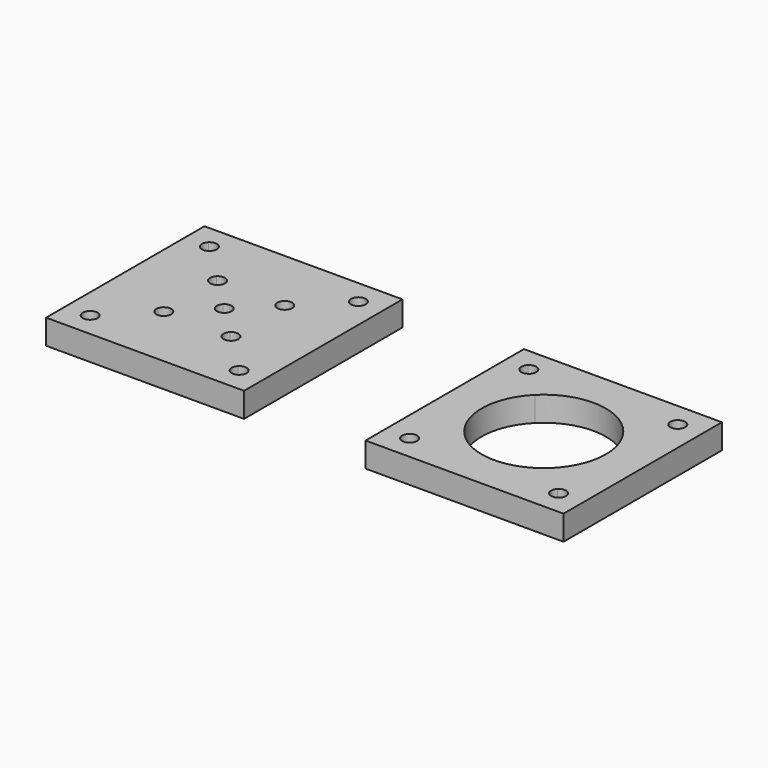
from build123d import *

# Parameters (mm, degrees)
F1_DEPTH = 6.35
F3_DEPTH = 6.35


with BuildPart() as f1:
    # F0 (on Top) → F1 (new body)
    with BuildSketch(Plane.XY):
        with BuildLine():
            Line((-64.19153, 70.797941), (-69.130671, 75.737081))
            Line((-69.130671, 75.737081), (-69.130671, 24.937081))
            Line((-69.130671, 24.937081), (-64.19153, 29.876222))
            ThreePointArc((-64.19153, 29.876222), (-64.19153, 32.570299), (-61.497453, 32.570299))
            Line((-61.497453, 32.570299), (-53.698755, 40.368997))
            ThreePointArc((-53.698755, 40.368997), (-53.698755, 43.063074), (-51.004679, 43.063074))
            Line((-51.004679, 43.063074), (-45.07771, 48.990043))
            ThreePointArc((-45.07771, 48.990043), (-45.635671, 50.337081), (-45.07771, 51.68412))
            Line((-45.07771, 51.68412), (-51.004679, 57.611089))
            ThreePointArc((-51.004679, 57.611089), (-53.698755, 57.611089), (-53.698755, 60.305166))
            Line((-53.698755, 60.305166), (-61.497453, 68.103864))
            ThreePointArc((-61.497453, 68.103864), (-64.19153, 68.103864), (-64.19153, 70.797941))
        make_face()
        with BuildLine():
            Line((-18.330671, 75.737081), (-69.130671, 75.737081))
            Line((-69.130671, 75.737081), (-64.19153, 70.797941))
            ThreePointArc((-64.19153, 70.797941), (-62.11548, 71.210893), (-60.939492, 69.450902))
            ThreePointArc((-60.939492, 69.450902), (-61.084501, 68.72189), (-61.497453, 68.103864))
            Line((-61.497453, 68.103864), (-53.698755, 60.305166))
            ThreePointArc((-53.698755, 60.305166), (-51.622705, 60.718118), (-50.446717, 58.958127))
            ThreePointArc((-50.446717, 58.958127), (-50.591726, 58.229115), (-51.004679, 57.611089))
            Line((-51.004679, 57.611089), (-45.07771, 51.68412))
            ThreePointArc((-45.07771, 51.68412), (-43.730671, 52.242081), (-42.383633, 51.68412))
            Line((-42.383633, 51.68412), (-36.456664, 57.611089))
            ThreePointArc((-36.456664, 57.611089), (-36.456664, 60.305166), (-33.762587, 60.305166))
            Line((-33.762587, 60.305166), (-25.963889, 68.103864))
            ThreePointArc((-25.963889, 68.103864), (-25.963889, 70.797941), (-23.269812, 70.797941))
            Line((-23.269812, 70.797941), (-18.330671, 75.737081))
        make_face()
        with BuildLine():
            Line((-18.330671, 24.937081), (-18.330671, 75.737081))
            Line((-18.330671, 75.737081), (-23.269812, 70.797941))
            ThreePointArc((-23.269812, 70.797941), (-22.85686, 70.179914), (-22.71185, 69.450902))
            ThreePointArc((-22.71185, 69.450902), (-23.887838, 67.690912), (-25.963889, 68.103864))
            Line((-25.963889, 68.103864), (-33.762587, 60.305166))
            ThreePointArc((-33.762587, 60.305166), (-33.349635, 59.687139), (-33.204625, 58.958127))
            ThreePointArc((-33.204625, 58.958127), (-34.380613, 57.198137), (-36.456664, 57.611089))
            Line((-36.456664, 57.611089), (-42.383633, 51.68412))
            ThreePointArc((-42.383633, 51.68412), (-41.970681, 51.066093), (-41.825671, 50.337081))
            ThreePointArc((-41.825671, 50.337081), (-41.970681, 49.608069), (-42.383633, 48.990043))
            Line((-42.383633, 48.990043), (-36.456664, 43.063074))
            ThreePointArc((-36.456664, 43.063074), (-34.380613, 43.476026), (-33.204625, 41.716036))
            ThreePointArc((-33.204625, 41.716036), (-33.349635, 40.987024), (-33.762587, 40.368997))
            Line((-33.762587, 40.368997), (-25.963889, 32.570299))
            ThreePointArc((-25.963889, 32.570299), (-23.887838, 32.983251), (-22.71185, 31.223261))
            ThreePointArc((-22.71185, 31.223261), (-22.85686, 30.494249), (-23.269812, 29.876222))
            Line((-23.269812, 29.876222), (-18.330671, 24.937081))
        make_face()
        with BuildLine():
            Line((-64.19153, 29.876222), (-69.130671, 24.937081))
            Line((-69.130671, 24.937081), (-18.330671, 24.937081))
            Line((-18.330671, 24.937081), (-23.269812, 29.876222))
            ThreePointArc((-23.269812, 29.876222), (-25.963889, 29.876222), (-25.963889, 32.570299))
            Line((-25.963889, 32.570299), (-33.762587, 40.368997))
            ThreePointArc((-33.762587, 40.368997), (-36.456664, 40.368997), (-36.456664, 43.063074))
            Line((-36.456664, 43.063074), (-42.383633, 48.990043))
            ThreePointArc((-42.383633, 48.990043), (-43.730671, 48.432081), (-45.07771, 48.990043))
            Line((-45.07771, 48.990043), (-51.004679, 43.063074))
            ThreePointArc((-51.004679, 43.063074), (-50.591726, 42.445047), (-50.446717, 41.716036))
            ThreePointArc((-50.446717, 41.716036), (-51.622705, 39.956045), (-53.698755, 40.368997))
            Line((-53.698755, 40.368997), (-61.497453, 32.570299))
            ThreePointArc((-61.497453, 32.570299), (-61.084501, 31.952273), (-60.939492, 31.223261))
            ThreePointArc((-60.939492, 31.223261), (-62.11548, 29.46327), (-64.19153, 29.876222))
        make_face()
    extrude(amount=F1_DEPTH)


with BuildPart() as f3:
    # F2 (on Top) → F3 (new body)
    with BuildSketch(Plane.XY):
        with BuildLine():
            Line((19.096085, 69.152684), (14.156944, 74.091825))
            Line((14.156944, 74.091825), (14.156944, 23.291825))
            Line((14.156944, 23.291825), (19.096085, 28.230966))
            ThreePointArc((19.096085, 28.230966), (19.096085, 30.925043), (21.790162, 30.925043))
            Line((21.790162, 30.925043), (28.286722, 37.421604))
            ThreePointArc((28.286722, 37.421604), (23.618444, 48.691825), (28.286722, 59.962047))
            Line((28.286722, 59.962047), (21.790162, 66.458607))
            ThreePointArc((21.790162, 66.458607), (19.096085, 66.458607), (19.096085, 69.152684))
        make_face()
        with BuildLine():
            Line((64.956944, 74.091825), (14.156944, 74.091825))
            Line((14.156944, 74.091825), (19.096085, 69.152684))
            ThreePointArc((19.096085, 69.152684), (21.172135, 69.565636), (22.348123, 67.805646))
            ThreePointArc((22.348123, 67.805646), (22.203114, 67.076634), (21.790162, 66.458607))
            Line((21.790162, 66.458607), (28.286722, 59.962047))
            ThreePointArc((28.286722, 59.962047), (39.556944, 64.630325), (50.827165, 59.962047))
            Line((50.827165, 59.962047), (57.323726, 66.458607))
            ThreePointArc((57.323726, 66.458607), (57.323726, 69.152684), (60.017803, 69.152684))
            Line((60.017803, 69.152684), (64.956944, 74.091825))
        make_face()
        with BuildLine():
            Line((64.956944, 23.291825), (64.956944, 74.091825))
            Line((64.956944, 74.091825), (60.017803, 69.152684))
            ThreePointArc((60.017803, 69.152684), (60.430755, 68.534658), (60.575765, 67.805646))
            ThreePointArc((60.575765, 67.805646), (59.399776, 66.045655), (57.323726, 66.458607))
            Line((57.323726, 66.458607), (50.827165, 59.962047))
            ThreePointArc((50.827165, 59.962047), (54.282198, 54.791225), (55.495444, 48.691825))
            ThreePointArc((55.495444, 48.691825), (54.282198, 42.592425), (50.827165, 37.421604))
            Line((50.827165, 37.421604), (57.323726, 30.925043))
            ThreePointArc((57.323726, 30.925043), (59.399776, 31.337995), (60.575765, 29.578004))
            ThreePointArc((60.575765, 29.578004), (60.430755, 28.848992), (60.017803, 28.230966))
            Line((60.017803, 28.230966), (64.956944, 23.291825))
        make_face()
        with BuildLine():
            Line((19.096085, 28.230966), (14.156944, 23.291825))
            Line((14.156944, 23.291825), (64.956944, 23.291825))
            Line((64.956944, 23.291825), (60.017803, 28.230966))
            ThreePointArc((60.017803, 28.230966), (57.323726, 28.230966), (57.323726, 30.925043))
            Line((57.323726, 30.925043), (50.827165, 37.421604))
            ThreePointArc((50.827165, 37.421604), (39.556944, 32.753325), (28.286722, 37.421604))
            Line((28.286722, 37.421604), (21.790162, 30.925043))
            ThreePointArc((21.790162, 30.925043), (22.203114, 30.307016), (22.348123, 29.578004))
            ThreePointArc((22.348123, 29.578004), (21.172135, 27.818014), (19.096085, 28.230966))
        make_face()
    extrude(amount=F3_DEPTH)


solid = Compound([f1.part, f3.part])
